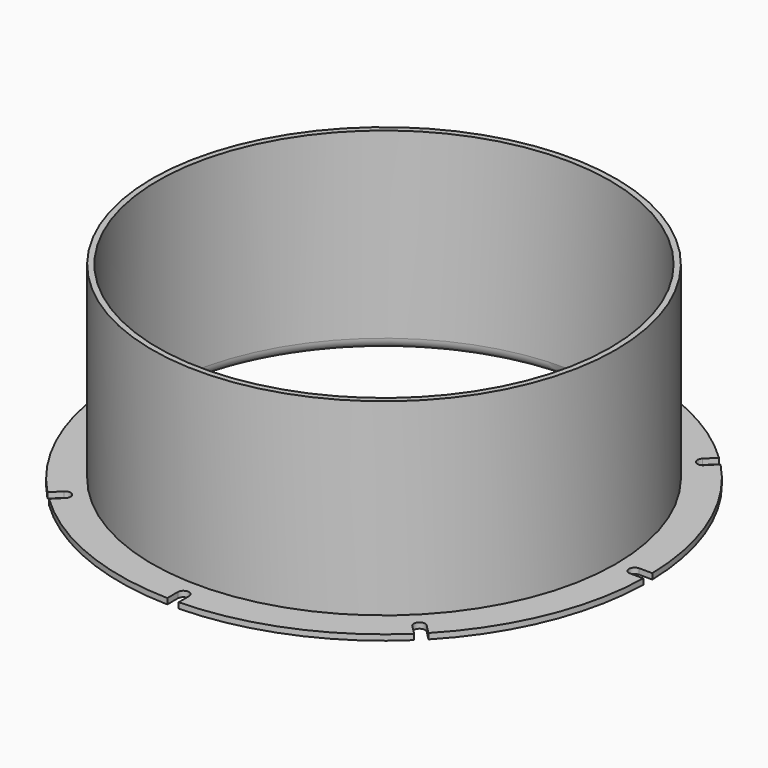
from build123d import *

# Parameters (mm, degrees)
F0_R     = 140
F0_R_2   = 120
F1_DEPTH = 3
F2_R     = 123
F2_R_2   = 120
F3_DEPTH = 100
F4_R     = 6
F6_DEPTH = 3.0010001


with BuildPart() as f1:
    # F0 (on Top) → F1 (new body)
    with BuildSketch(Plane.XY):
        Circle(F0_R)
        Circle(F0_R_2, mode=Mode.SUBTRACT)
    extrude(amount=F1_DEPTH)

    # F2 (on face) → F3 (join)
    with BuildSketch(Plane.XY.offset(3)):
        Circle(F2_R)
        Circle(F2_R_2, mode=Mode.SUBTRACT)
    extrude(amount=F3_DEPTH)

    # F4
    f4_edges = [f1.edges().sort_by_distance(p)[0] for p in [
        (-120, 0, 0),
    ]]
    fillet(f4_edges, radius=F4_R)

    # F5 (on face) → F6 (cut, through all)
    with BuildSketch(Plane.XY.offset(3)):
        with BuildLine():
            ThreePointArc((-101.0935386677, -96.8508979806), (-98.9949493661, -98.9949493661), (-96.8508979806, -101.0935386677))
            Line((-96.8508979806, -101.0935386677), (-91.9238815543, -96.1665222414))
            ThreePointArc((-91.9238815543, -96.1665222414), (-91.9238815543, -91.9238815543), (-96.1665222414, -91.9238815543))
            Line((-96.1665222414, -91.9238815543), (-101.0935386677, -96.8508979806))
        make_face()
        with BuildLine():
            ThreePointArc((0, -140), (1.5000861142, -139.9919631324), (3, -139.9678534521))
            Line((3, -139.9678534521), (3, -133))
            ThreePointArc((3, -133), (0, -130), (-3, -133))
            Line((-3, -133), (-3, -139.9678534521))
            ThreePointArc((-3, -139.9678534521), (-1.5000861142, -139.9919631324), (0, -140))
        make_face()
        with BuildLine():
            Line((-133, 3), (-139.9678534521, 3))
            ThreePointArc((-139.9678534521, 3), (-140, 0), (-139.9678534521, -3))
            Line((-139.9678534521, -3), (-133, -3))
            ThreePointArc((-133, -3), (-130, 0), (-133, 3))
        make_face()
        with BuildLine():
            Line((-91.9238815543, 96.1665222414), (-96.8508979806, 101.0935386677))
            ThreePointArc((-96.8508979806, 101.0935386677), (-98.9949493661, 98.9949493661), (-101.0935386677, 96.8508979806))
            Line((-101.0935386677, 96.8508979806), (-96.1665222414, 91.9238815543))
            ThreePointArc((-96.1665222414, 91.9238815543), (-91.9238815543, 91.9238815543), (-91.9238815543, 96.1665222414))
        make_face()
        with BuildLine():
            Line((3, 133), (3, 139.9678534521))
            ThreePointArc((3, 139.9678534521), (0, 140), (-3, 139.9678534521))
            Line((-3, 139.9678534521), (-3, 133))
            ThreePointArc((-3, 133), (0, 130), (3, 133))
        make_face()
        with BuildLine():
            ThreePointArc((96.8508979806, -101.0935386677), (98.9949493661, -98.9949493661), (101.0935386677, -96.8508979806))
            Line((101.0935386677, -96.8508979806), (96.1665222414, -91.9238815543))
            ThreePointArc((96.1665222414, -91.9238815543), (91.9238815543, -91.9238815543), (91.9238815543, -96.1665222414))
            Line((91.9238815543, -96.1665222414), (96.8508979806, -101.0935386677))
        make_face()
        with BuildLine():
            ThreePointArc((139.9678534521, -3), (139.9919631324, -1.5000861142), (140, 0))
            ThreePointArc((140, 0), (139.9919631324, 1.5000861142), (139.9678534521, 3))
            Line((139.9678534521, 3), (133, 3))
            ThreePointArc((133, 3), (130, 0), (133, -3))
            Line((133, -3), (139.9678534521, -3))
        make_face()
        with BuildLine():
            Line((96.1665222414, 91.9238815543), (101.0935386677, 96.8508979806))
            ThreePointArc((101.0935386677, 96.8508979806), (98.9949493661, 98.9949493661), (96.8508979806, 101.0935386677))
            Line((96.8508979806, 101.0935386677), (91.9238815543, 96.1665222414))
            ThreePointArc((91.9238815543, 96.1665222414), (91.9238815543, 91.9238815543), (96.1665222414, 91.9238815543))
        make_face()
    extrude(amount=-F6_DEPTH, mode=Mode.SUBTRACT)


solid = f1.part
